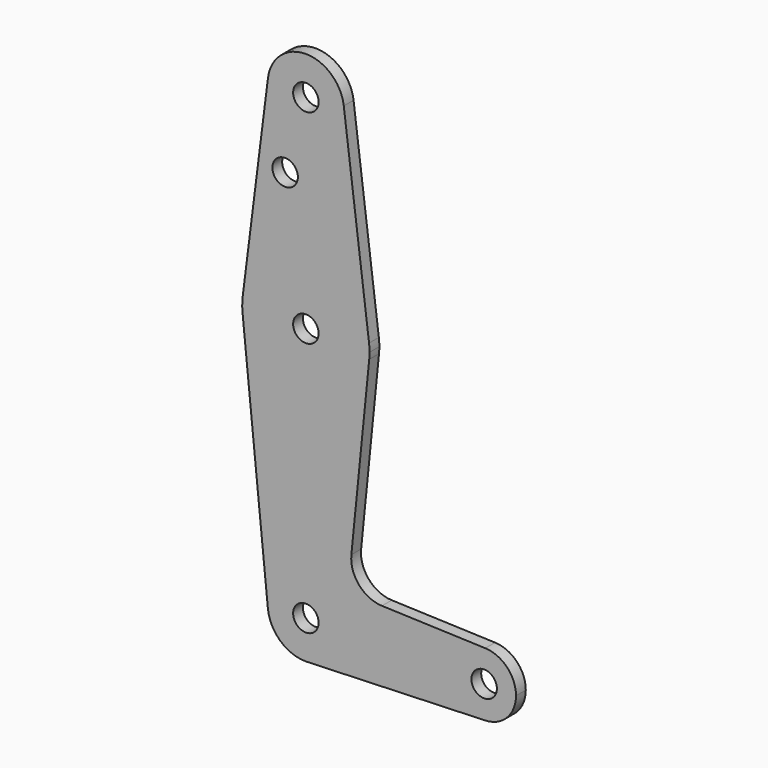
from build123d import *

# Parameters (mm, degrees)
F0_R     = 3.175
F1_DEPTH = 3.048


with BuildPart() as f1:
    # F0 (on Front) → F1 (new body)
    with BuildSketch(Plane.XZ):
        with BuildLine():
            ThreePointArc((-9.450293, 115.490625), (-0.596483, 104.793695), (9.525, 114.3))
            ThreePointArc((9.525, 114.3), (9.506305, 114.896483), (9.450293, 115.490625))
            ThreePointArc((9.450293, 115.490625), (0, 123.825), (-9.450293, 115.490625))
        make_face()
        with Locations((0, 114.3)):
            Circle(F0_R, mode=Mode.SUBTRACT)
        with BuildLine():
            ThreePointArc((9.450293, 115.490625), (9.506305, 114.896483), (9.525, 114.3))
            ThreePointArc((9.525, 114.3), (-0.596483, 104.793695), (-9.450293, 115.490625))
            Line((-9.450293, 115.490625), (-15.750488, 65.484375))
            ThreePointArc((-15.750488, 65.484375), (0, 79.375), (15.750488, 65.484375))
            Line((15.750488, 65.484375), (9.450293, 115.490625))
        make_face()
        with Locations((-5.173061, 96.13955)):
            Circle(F0_R, mode=Mode.SUBTRACT)
        with BuildLine():
            ThreePointArc((15.875, 63.5), (15.843841, 64.494139), (15.750488, 65.484375))
            ThreePointArc((15.750488, 65.484375), (0, 79.375), (-15.750488, 65.484375))
            ThreePointArc((-15.750488, 65.484375), (-15.873744, 63.699705), (-15.795426, 61.9125))
            ThreePointArc((-15.795426, 61.9125), (0, 47.625), (15.795426, 61.9125))
            ThreePointArc((15.795426, 61.9125), (15.855094, 62.705253), (15.875, 63.5))
        make_face()
        with Locations((0, 63.5)):
            Circle(F0_R, mode=Mode.SUBTRACT)
        with BuildLine():
            ThreePointArc((15.795426, 61.9125), (0, 47.625), (-15.795426, 61.9125))
            Line((-15.795426, 61.9125), (-9.477255, -0.9525))
            ThreePointArc((-9.477255, -0.9525), (-0.476848, 9.513056), (9.525, 0))
            ThreePointArc((9.525, 0), (6.970557, -6.491299), (0.677344, -9.500886))
            Line((0.677344, -9.500886), (44.732405, -7.932475))
            ThreePointArc((44.732405, -7.932475), (36.5125, 0.000539), (44.733482, 7.932436))
            Line((44.733482, 7.932436), (18.9676, 8.853234))
            ThreePointArc((18.9676, 8.853234), (13.2612, 11.571359), (11.341187, 17.593382))
            Line((11.341187, 17.593382), (15.795426, 61.9125))
        make_face()
        with BuildLine():
            ThreePointArc((9.525, 0), (-0.476848, 9.513056), (-9.477255, -0.9525))
            ThreePointArc((-9.477255, -0.9525), (-6.389564, -7.063929), (0, -9.525))
            Line((0, -9.525), (0.677344, -9.500886))
            ThreePointArc((0.677344, -9.500886), (6.970557, -6.491299), (9.525, 0))
        make_face()
        Circle(F0_R, mode=Mode.SUBTRACT)
        with BuildLine():
            ThreePointArc((52.3875, 0), (50.162007, 5.511523), (44.733482, 7.932436))
            ThreePointArc((44.733482, 7.932436), (36.5125, 0.000539), (44.732405, -7.932475))
            ThreePointArc((44.732405, -7.932475), (50.161633, -5.51191), (52.3875, 0))
        make_face()
        with Locations((44.45, 0)):
            Circle(F0_R, mode=Mode.SUBTRACT)
    extrude(amount=F1_DEPTH)


solid = f1.part
